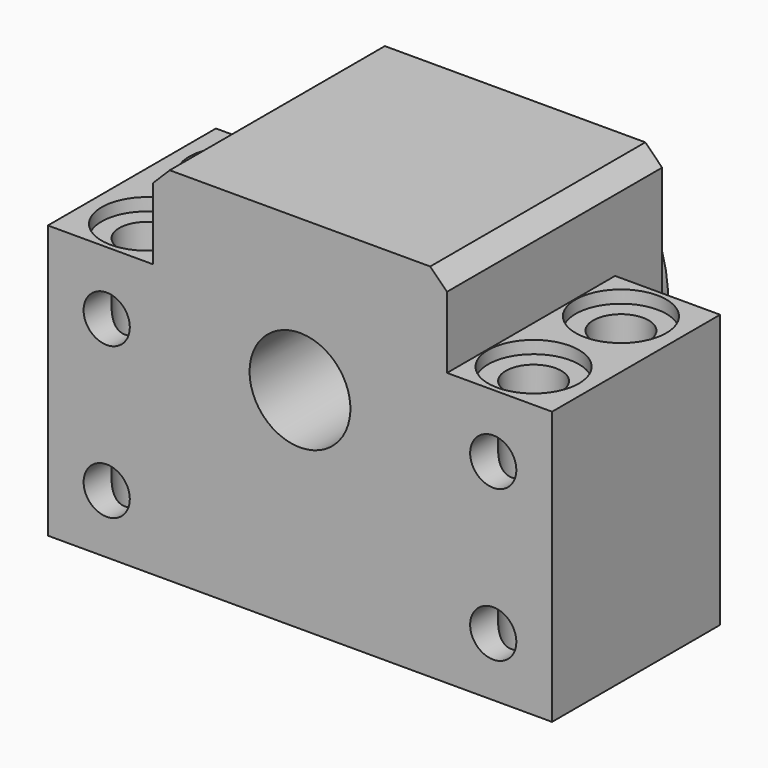
from build123d import *

# Parameters (mm, degrees)
F8_W           = 60
F8_H           = 32.5
F9_DEPTH       = 25
F0_W           = 35
F0_H           = 35
F10_DEPTH      = 32
F1_R           = 6
F11_DEPTH      = 32.001
F2_SIZE        = 2
F3_R           = 2.75
F12_DEPTH      = 32.001
F4_SIZE        = 2
F6_D           = 6.6
F6_CBORE_D     = 10.8
F6_CBORE_DEPTH = 1.5
F13_R          = 15
F13_R_2        = 6
F7_DEPTH       = 4


with BuildPart() as f9:
    # F8 (on Front) → F9 (new body)
    with BuildSketch(Plane.XZ):
        Rectangle(F8_W, F8_H)
    extrude(amount=-F9_DEPTH)

    # F0 (on Front) → F10 (join)
    with BuildSketch(Plane.XZ):
        with Locations((0, 9.25)):
            Rectangle(F0_W, F0_H)
    extrude(amount=-F10_DEPTH)

    # F1 (on face) → F11 (cut, through all)
    with BuildSketch(Plane(origin=(0, 32, 0), x_dir=(-1, 0, 0), z_dir=(0, 1, 0))):
        with Locations((0, 8.75)):
            Circle(F1_R)
    extrude(amount=-F11_DEPTH, mode=Mode.SUBTRACT)

    # F2
    f2_edges = [f9.edges().sort_by_distance(p)[0] for p in [
        (-17.5, 16, 26.75),
        (17.5, 16, 26.75),
    ]]
    chamfer(f2_edges, length=F2_SIZE)

    # F3 (on Front) → F12 (cut, through all)
    with BuildSketch(Plane.XZ):
        with Locations((23, -9.25)):
            Circle(F3_R)
        with Locations((23, 8.75)):
            Circle(F3_R)
        with Locations((-23, 8.75)):
            Circle(F3_R)
        with Locations((-23, -9.25)):
            Circle(F3_R)
    extrude(amount=-F12_DEPTH, mode=Mode.SUBTRACT)

    # F4
    f4_edges = [f9.edges().sort_by_distance(p)[0] for p in [
        (-17.5, 28.5, -8.25),
        (17.5, 28.5, -8.25),
    ]]
    chamfer(f4_edges, length=F4_SIZE)

    # F6 (through all)
    with Locations(Plane.XY.offset(16.25)):
        with Locations((-23, 6), (-23, 19), (23, 6), (23, 19)):
            CounterBoreHole(F6_D / 2, F6_CBORE_D / 2, F6_CBORE_DEPTH)

    # F13 (on face) → F7 (join)
    with BuildSketch(Plane(origin=(0, 32, 0), x_dir=(-1, 0, 0), z_dir=(0, 1, 0))):
        with Locations((0, 8.75)):
            Circle(F13_R)
        with Locations((0, 8.75)):
            Circle(F13_R_2, mode=Mode.SUBTRACT)
    extrude(amount=F7_DEPTH)


solid = f9.part
